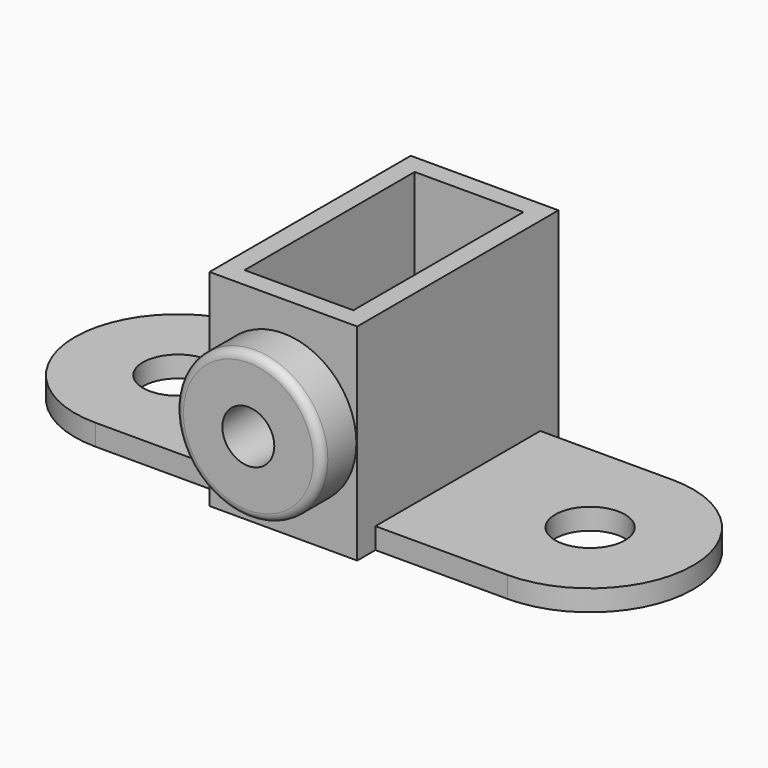
from build123d import *

# Parameters (mm, degrees)
PAD_DEPTH       = 1.3
SKETCH001_W     = 9.1
SKETCH001_H     = 15.5
PAD001_DEPTH    = 12.7
SKETCH002_W     = 6.7
SKETCH002_H     = 13.1
POCKET_DEPTH    = 12.701
SKETCH003_R     = 2.15
POCKET001_DEPTH = 98.797458
SKETCH004_R     = 4.5
PAD002_DEPTH    = 2.7
SKETCH005_R     = 1.6
POCKET002_DEPTH = 3.9
FILLET_R        = 0.5


with BuildPart() as part:
    # Sketch → Pad (new body)
    with BuildSketch(Plane.XY):
        with BuildLine():
            ThreePointArc((-12.7, 6.35), (-19.05, 0), (-12.7, -6.35))
            Line((-12.7, -6.35), (12.7, -6.35))
            ThreePointArc((12.7, -6.35), (19.05, 0), (12.7, 6.35))
            Line((-12.7, 6.35), (12.7, 6.35))
        make_face()
    extrude(amount=PAD_DEPTH)

    # Sketch001 → Pad001 (join)
    with BuildSketch(Plane.XY):
        Rectangle(SKETCH001_W, SKETCH001_H)
    extrude(amount=PAD001_DEPTH)

    # Sketch002 → Pocket (cut, through all)
    with BuildSketch(Plane.XY):
        Rectangle(SKETCH002_W, SKETCH002_H)
    extrude(amount=POCKET_DEPTH, mode=Mode.SUBTRACT)

    # Sketch003 → Pocket001 (cut, through all)
    with BuildSketch(Plane.XY):
        with Locations((-12.7, 0)):
            Circle(SKETCH003_R)
    pocket001 = extrude(amount=POCKET001_DEPTH, mode=Mode.SUBTRACT)

    # Mirrored: Pocket001 across Sketch003 V_Axis
    add(pocket001.mirror(Plane(origin=(0, 0, 0), x_dir=(0, 0, 1), z_dir=(1, 0, 0))), mode=Mode.SUBTRACT)

    # Sketch004 (on Face11 of Mirrored) → Pad002 (join)
    with BuildSketch(Plane.XZ.offset(7.75)):
        with Locations((0, 6.35)):
            Circle(SKETCH004_R)
    extrude(amount=PAD002_DEPTH)

    # Sketch005 (on Face25 of Pad002) → Pocket002 (cut)
    with BuildSketch(Plane.XZ.offset(10.45)):
        with Locations((0, 6.35)):
            Circle(SKETCH005_R)
    extrude(amount=-POCKET002_DEPTH, mode=Mode.SUBTRACT)

    # Fillet
    fillet_edges = [part.edges().sort_by_distance(p)[0] for p in [
        (-4.5, -10.45, 6.35),
    ]]
    fillet(fillet_edges, radius=FILLET_R)


solid = part.part
